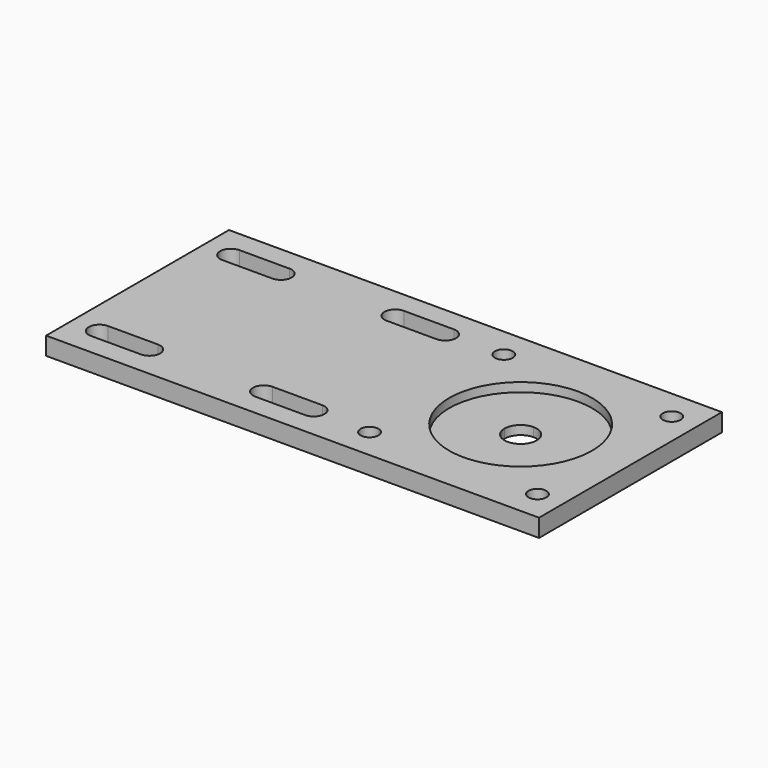
from build123d import *

# Parameters (mm, degrees)
PAD_DEPTH             = 5
SKETCH001_R           = 2.5
POCKET_DEPTH          = 288.500559
POCKET001_DEPTH       = 283.500559
POCKET001_DEPTH_BACK  = 288.500559
SKETCH003_R           = 20
POCKET002_DEPTH       = 2.5
SKETCH004_R           = 4.5
POCKET003_DEPTH       = 288.500559
POCKET003_DEPTH_BACK  = 283.500559
CLONE_PLACEMENT_ANGLE = 90


with BuildPart() as part:
    # Sketch → Pad (new body)
    with BuildSketch(Plane.XY):
        Polygon((0, 0), (0, 69), (32, 69), (32, -69), (0, -69), align=None)
    pad = extrude(amount=PAD_DEPTH)

    # Sketch001 → Pocket (cut, through all)
    with BuildSketch(Plane(origin=(23.5, 14.75, 0), x_dir=(1, 0, 0), z_dir=(0, 0, 1))):
        Circle(SKETCH001_R)
        with Locations((0, 47)):
            Circle(SKETCH001_R)
    pocket = extrude(amount=POCKET_DEPTH, mode=Mode.SUBTRACT)

    # Sketch002 → Pocket001 (cut, two sides)
    with BuildSketch(Plane(origin=(23, -1.25, 0), x_dir=(1, 0, 0), z_dir=(0, 0, 1))) as pocket001_sk:
        with BuildLine():
            ThreePointArc((3, 0), (0, 3), (-3, 0))
            Line((-3, 0), (-3, -14))
            ThreePointArc((-3, -14), (0, -17), (3, -14))
            Line((3, -14), (3, 0))
        make_face()
        with BuildLine():
            ThreePointArc((3, -46), (0, -43), (-3, -46))
            Line((-3, -46), (-3, -60))
            ThreePointArc((-3, -60), (0, -63), (3, -60))
            Line((3, -60), (3, -46))
        make_face()
    pocket001 = extrude(amount=-POCKET001_DEPTH, mode=Mode.SUBTRACT) + extrude(pocket001_sk.sketch, amount=POCKET001_DEPTH_BACK, mode=Mode.SUBTRACT)

    # Sketch003 → Pocket002 (cut)
    with BuildSketch(Plane(origin=(0, 38.25, 5), x_dir=(1, 0, 0), z_dir=(0, 0, 1))):
        Circle(SKETCH003_R)
    pocket002 = extrude(amount=-POCKET002_DEPTH, mode=Mode.SUBTRACT)

    # Sketch004 → Pocket003 (cut, two sides)
    with BuildSketch(Plane(origin=(0, 38.25, 5), x_dir=(1, 0, 0), z_dir=(0, 0, 1))) as pocket003_sk:
        Circle(SKETCH004_R)
    pocket003 = extrude(amount=-POCKET003_DEPTH, mode=Mode.SUBTRACT) + extrude(pocket003_sk.sketch, amount=POCKET003_DEPTH_BACK, mode=Mode.SUBTRACT)

    # Mirrored: Pad, Pocket, Pocket001, Pocket002, Pocket003 across Sketch V_Axis
    add(pad.mirror(Plane(origin=(0, 0, 0), x_dir=(0, 0, 1), z_dir=(1, 0, 0))))
    add(pocket.mirror(Plane(origin=(0, 0, 0), x_dir=(0, 0, 1), z_dir=(1, 0, 0))), mode=Mode.SUBTRACT)
    add(pocket001.mirror(Plane(origin=(0, 0, 0), x_dir=(0, 0, 1), z_dir=(1, 0, 0))), mode=Mode.SUBTRACT)
    add(pocket002.mirror(Plane(origin=(0, 0, 0), x_dir=(0, 0, 1), z_dir=(1, 0, 0))), mode=Mode.SUBTRACT)
    add(pocket003.mirror(Plane(origin=(0, 0, 0), x_dir=(0, 0, 1), z_dir=(1, 0, 0))), mode=Mode.SUBTRACT)


with BuildPart() as part_1:
    # Clone placement: moved
    add(part.part.moved(Location((69, 32, 0))).rotate(Axis((69, 32, 0), (0, 0, -1)), CLONE_PLACEMENT_ANGLE))


solid = part_1.part
